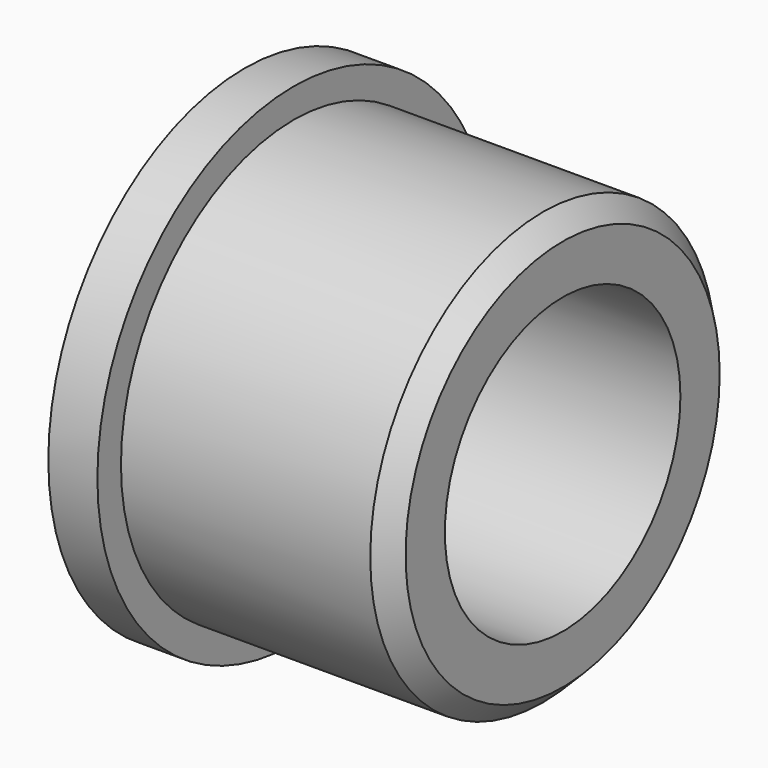
from build123d import *

# Parameters (mm, degrees)
F2_SIZE = 1


with BuildPart() as f1:
    # F0 (on Top) → F1 (revolve)
    with BuildSketch(Plane.XY):
        Polygon((0, 12.5), (0, 7.5), (16.2, 7.5), (16.2, 11), (2.5, 11), (2.5, 12.5), align=None)
    revolve(axis=Axis((6.446342, 0, 0), (1, 0, 0)))

    # F2
    f2_edges = [f1.edges().sort_by_distance(p)[0] for p in [
        (16.2, -11, 0),
    ]]
    chamfer(f2_edges, length=F2_SIZE)


solid = f1.part
